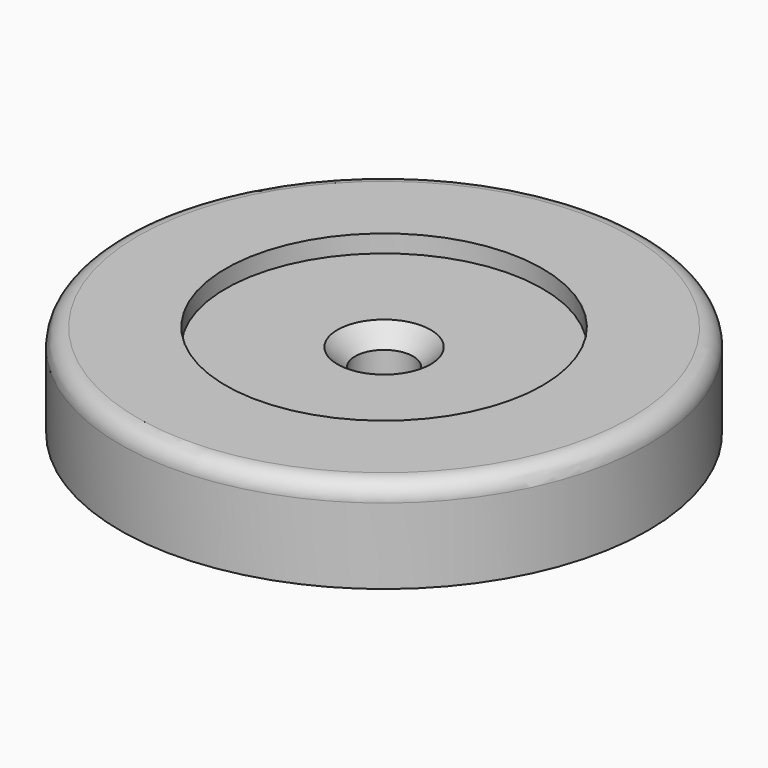
from build123d import *

# Parameters (mm, degrees)
SKETCH031_R     = 15
PAD012_DEPTH    = 5.3
SKETCH033_R     = 9
POCKET017_DEPTH = 1
SKETCH034_R     = 1.65
POCKET018_DEPTH = 5
FILLET007_R     = 1
CHAMFER002_SIZE = 1


with BuildPart() as part:
    # Sketch031 → Pad012 (new body)
    with BuildSketch(Plane.XY):
        Circle(SKETCH031_R)
    extrude(amount=PAD012_DEPTH)

    # Sketch033 → Pocket017 (cut)
    with BuildSketch(Plane.XY.offset(5.3)):
        Circle(SKETCH033_R)
    extrude(amount=-POCKET017_DEPTH, mode=Mode.SUBTRACT)

    # Sketch034 (on Face5 of Pocket017) → Pocket018 (cut)
    with BuildSketch(Plane.XY.offset(4.3)):
        Circle(SKETCH034_R)
    extrude(amount=-POCKET018_DEPTH, mode=Mode.SUBTRACT)

    # Fillet007
    fillet007_edges = [part.edges().sort_by_distance(p)[0] for p in [
        (-15, 0, 5.3),
    ]]
    fillet(fillet007_edges, radius=FILLET007_R)

    # Chamfer002
    chamfer002_edges = [part.edges().sort_by_distance(p)[0] for p in [
        (-1.65, 0, 4.3),
    ]]
    chamfer(chamfer002_edges, length=CHAMFER002_SIZE)


with BuildPart() as part_1:
    # Body008 placement: moved
    add(part.part.moved(Location((-59.5, 37.5, 85))))


solid = part_1.part
